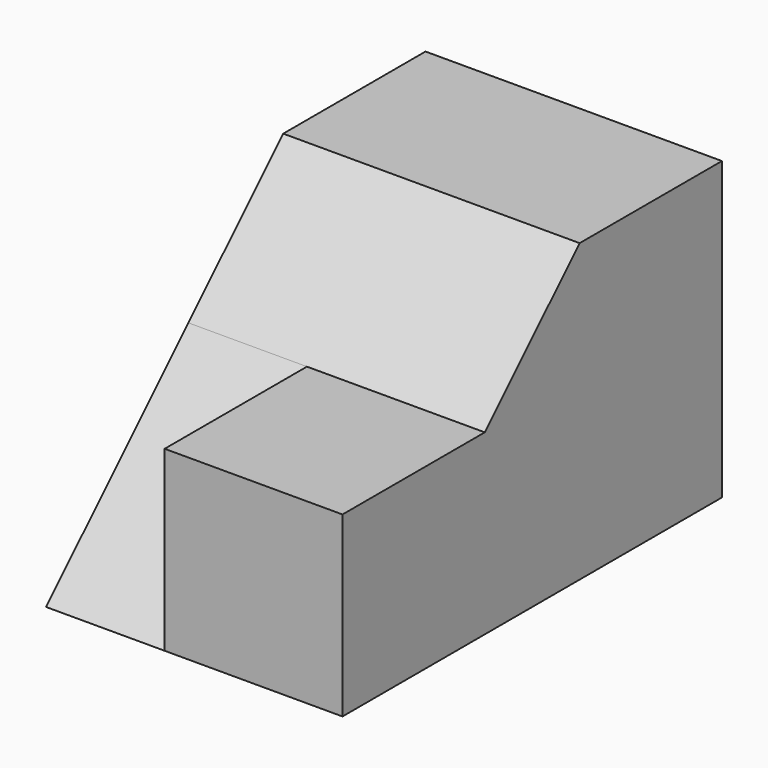
from build123d import *

# Parameters (mm, degrees)
F1_DEPTH = 31.75
F2_DEPTH = 31.75
F4_DEPTH = 12.7


with BuildPart() as f1:
    # F0 (on Right) → F1 (new body)
    with BuildSketch(Plane.YZ):
        Polygon((6.015837, 12.193895), (25.065837, 31.243895), (6.015837, 31.243895), align=None)
    extrude(amount=F1_DEPTH)

    # F0 (on Right) → F2 (join)
    with BuildSketch(Plane.YZ):
        Polygon((56.815837, 12.193895), (56.815837, 43.921027), (37.765837, 43.921027), (25.065837, 31.243895), (6.015837, 12.193895), align=None)
        Polygon((6.015837, 12.193895), (25.065837, 31.243895), (6.015837, 31.243895), align=None)
    extrude(amount=F2_DEPTH)

    # F3 (on face) → F4 (cut)
    with BuildSketch(Plane(origin=(0, 0, 0), x_dir=(0, -1, 0), z_dir=(-1, 0, 0))):
        Polygon((-6.015837, 31.243895), (-25.065837, 31.243895), (-6.015837, 12.193895), align=None)
    extrude(amount=-F4_DEPTH, mode=Mode.SUBTRACT)


solid = f1.part
